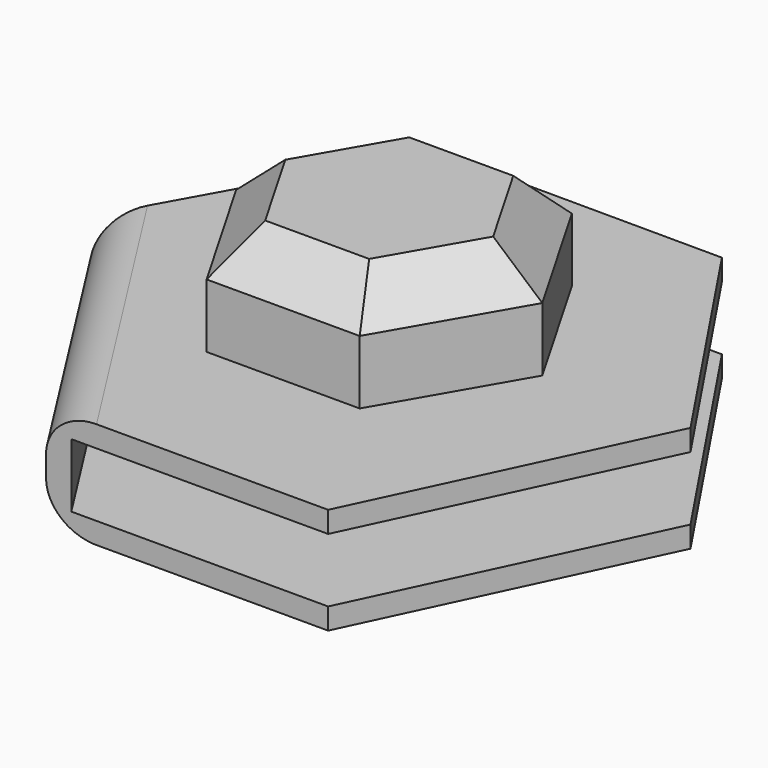
from build123d import *

# Parameters (mm, degrees)
F1_DEPTH = 12.7
F3_DEPTH = 12.7
F4_SIZE  = 5.08
F5_T     = -2.54
F6_R     = 5.08
F7_R     = 5.08


with BuildPart() as f1:
    # F0 (on Top) → F1 (new body)
    with BuildSketch(Plane.XY):
        Polygon((-29.5936651047, 42.7012435267), (-20.7587903276, 28.1868066845), (-3.0799934127, 28.5968528045), (4.6840362066, 42.572935257), align=None)
        Polygon((-3.0799934127, 28.5968528045), (6.1145154014, 13.4915886278), (23.8648758049, 13.903294608), (4.6840362066, 42.572935257), align=None)
        Polygon((6.1145154014, 13.4915886278), (-2.3697726995, -2.0237216688), (7.8208672829, -20.1170971814), (23.8648758049, 13.903294608), align=None)
        Polygon((-2.3697726995, -2.0237216688), (-20.0485696143, -2.4337677888), (-25.8524047196, -20.1170971814), (7.8208672829, -20.1170971814), align=None)
        Polygon((-25.8524047196, -20.1170971814), (-20.0485696143, -2.4337677888), (-29.2430784284, 12.6714963879), (-46.4981990716, 12.2712771137), align=None)
        Polygon((-46.4981990716, 12.2712771137), (-29.2430784284, 12.6714963879), (-20.7587903276, 28.1868066845), (-29.5936651047, 42.7012435267), align=None)
        Polygon((-29.2430784284, 12.6714963879), (-20.0485696143, -2.4337677888), (-2.3697726995, -2.0237216688), (6.1145154014, 13.4915886278), (-3.0799934127, 28.5968528045), (-20.7587903276, 28.1868066845), align=None)
    extrude(amount=F1_DEPTH)

    # F2 (on face) → F3 (join)
    with BuildSketch(Plane.XY.offset(12.7)):
        Polygon((-20.9390962878, -2.3024461698), (-2.6609753808, -2.3024461698), (6.4780850727, 13.5268708691), (-2.6609753808, 29.356187908), (-20.9390962878, 29.356187908), (-30.0781567413, 13.5268708691), align=None)
    extrude(amount=F3_DEPTH)

    # F4
    f4_edges = [f1.edges().sort_by_distance(p)[0] for p in [
        (1.908555, 5.612212, 25.4),
        (1.908555, 21.441529, 25.4),
        (-11.800036, 29.356188, 25.4),
        (-25.508627, 21.441529, 25.4),
        (-25.508627, 5.612212, 25.4),
        (-11.800036, -2.302446, 25.4),
    ]]
    chamfer(f4_edges, length=F4_SIZE)

    # F5
    f5_openings = [f1.faces().sort_by_distance(p)[0] for p in [
        (15.842872, -3.106901, 6.35),
        (-9.015769, -20.117097, 6.35),
        (14.274456, 28.238115, 6.35),
        (-12.454814, 42.637089, 6.35),
        (-38.045932, 27.48626, 6.35),
    ]]
    offset(amount=F5_T, openings=f5_openings, kind=Kind.INTERSECTION)

    # F6
    f6_edges = [f1.edges().sort_by_distance(p)[0] for p in [
        (-36.175302, -3.92291, 12.7),
    ]]
    fillet(f6_edges, radius=F6_R)

    # F7
    f7_edges = [f1.edges().sort_by_distance(p)[0] for p in [
        (-36.175302, -3.92291, 0),
    ]]
    fillet(f7_edges, radius=F7_R)


solid = f1.part
